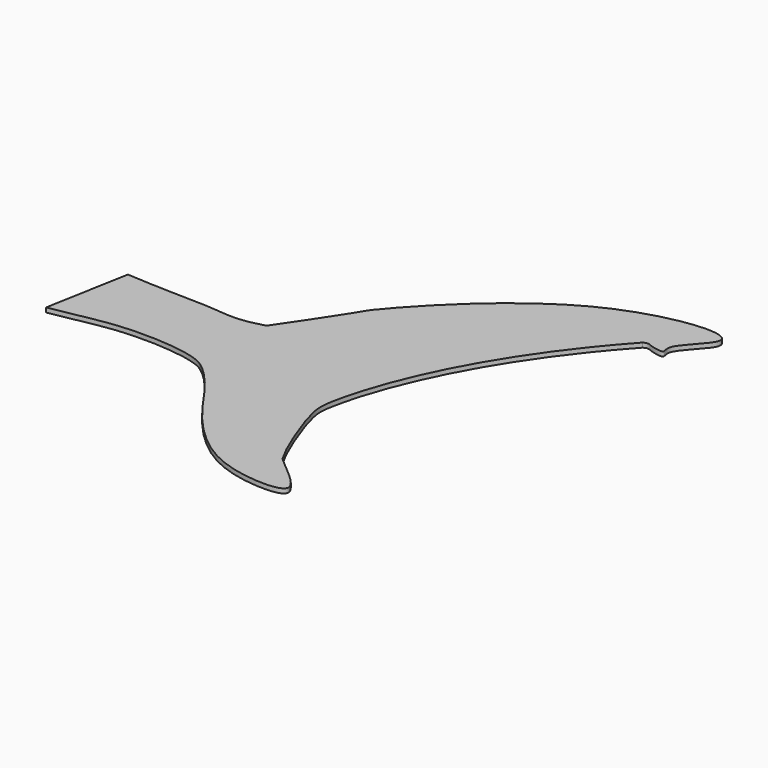
from build123d import *

# Parameters (mm, degrees)
F1_DEPTH = 3.175


with BuildPart() as f1:
    # F0 (on Top) → F1 (new body)
    with BuildSketch(Plane.XY):
        with BuildLine():
            add(Edge.make_bspline(
                [(-172.2328667043, 58.114699061), (-178.1991780072, 62.5826207553), (-202.4796362473, 67.2126055062), (-240.970937826, 66.6028247051), (-259.3255736371, 61.8181466399), (-280.8515687991, 58.114699061)],
                knots=[0, 0, 0, 0, 0.3027206265, 0.6356225974, 1, 1, 1, 1], degree=3))
            add(Edge.make_bspline(
                [(-172.2328667043, 58.114699061), (-167.7932428049, 55.103638933), (-153.8662998203, 41.1431396594), (-135.8069266298, 12.4939209918), (-110.0012521127, -14.9557776444), (-78.8693403249, -31.6914411152), (-23.4339486691, -32.3119024273), (-67.2976555796, -2.7103102349), (-67.0868525894, 0), (-67.0868525894, -0.2549805823)],
                knots=[0, 0, 0, 0, 0.1360657028, 0.3037302143, 0.4742693474, 0.653482802, 0.809369367, 0.9757911433, 1, 1, 1, 1], degree=3))
            add(Edge.make_bspline(
                [(-67.0868525894, -0.2549805823), (-69.2125904029, 3.256175837), (-74.9921898873, 14.4848800684), (-89.27520538, 52.310380297), (-88.7591205811, 74.5924149335), (-62.9272192884, 159.5779075452), (1.7608600929, 230.5372072262)],
                knots=[0, 0, 0, 0, 0.1439204339, 0.3645296562, 0.5199668986, 1, 1, 1, 1], degree=3))
            add(Edge.make_bspline(
                [(1.7608600929, 230.5372072262), (4.560167842, 232.3477854591), (6.9918636567, 230.3656272234), (20.2924394563, 227.4759853141), (12.3864605446, 237.3715301092), (57.8638928697, 271.815718132), (-57.3918104099, 261.8348224849), (-155.2239797379, 150.0208747529), (-135.8220126113, 170.3795203176), (-172.5344332528, 116.915699061)],
                knots=[0, 0, 0, 0, 0.0612977045, 0.1343370941, 0.1950509223, 0.3256865314, 0.5386004436, 0.806055147, 1, 1, 1, 1], degree=3))
            add(Edge.make_bspline(
                [(-172.5344332528, 116.915699061), (-189.9868586916, 111.6945158446), (-209.5622546066, 116.3198478282), (-237.8254445073, 114.7618445941), (-270.2109416491, 116.915699061)],
                knots=[0, 0, 0, 0, 0.4336162916, 1, 1, 1, 1], degree=3))
            Line((-270.2109416491, 116.915699061), (-280.8515687991, 58.114699061))
        make_face()
    extrude(amount=F1_DEPTH)


solid = f1.part
